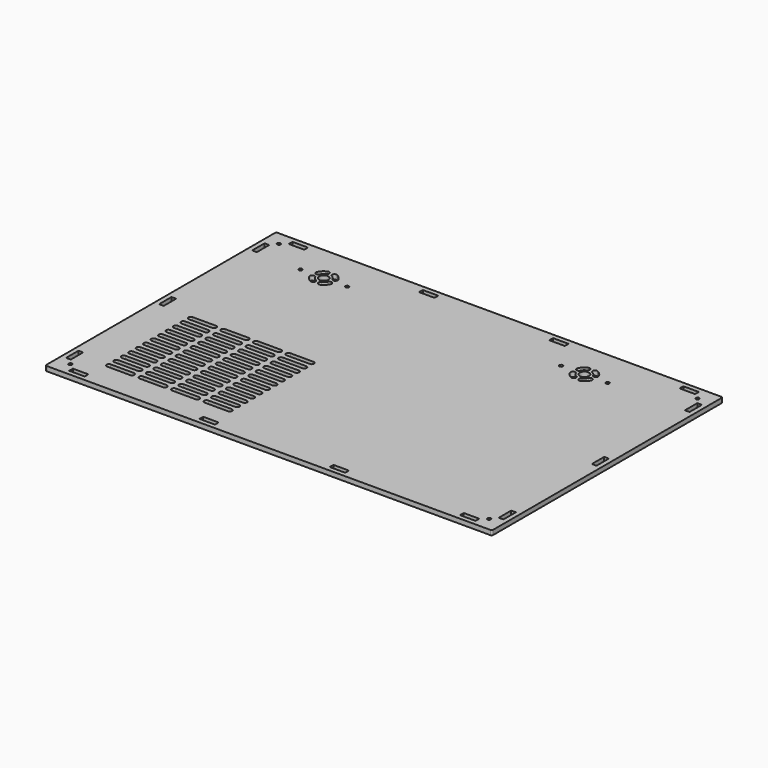
from build123d import *

# Parameters (mm, degrees)
F0_R     = 1.1
F0_W     = 10
F0_H     = 3
F0_W_2   = 3
F0_H_2   = 10
F0_R_2   = 3
F1_DEPTH = 3


with BuildPart() as f1:
    # F0 (on Top) → F1 (new body)
    with BuildSketch(Plane.XY):
        with BuildLine():
            ThreePointArc((5, 6), (5.292893, 5.292893), (6, 5))
            Line((6, 5), (292, 5))
            ThreePointArc((292, 5), (292.707107, 5.292893), (293, 6))
            Line((293, 6), (293, 190))
            ThreePointArc((293, 190), (292.707107, 190.707107), (292, 191))
            Line((292, 191), (6, 191))
            ThreePointArc((6, 191), (5.292893, 190.707107), (5, 190))
            Line((5, 190), (5, 6))
        make_face()
        with Locations((14, 14)):
            Circle(F0_R, mode=Mode.SUBTRACT)
        with Locations((23, 9.5)):
            Rectangle(F0_W, F0_H, mode=Mode.SUBTRACT)
        with Locations((9.5, 23)):
            Rectangle(F0_W_2, F0_H_2, mode=Mode.SUBTRACT)
        with BuildLine():
            Line((45, 23.5), (30, 23.5))
            ThreePointArc((30, 23.5), (28.5, 25), (30, 26.5))
            Line((30, 26.5), (45, 26.5))
            ThreePointArc((45, 26.5), (46.5, 25), (45, 23.5))
        make_face(mode=Mode.SUBTRACT)
        with BuildLine():
            Line((66, 23.5), (51, 23.5))
            ThreePointArc((51, 23.5), (49.5, 25), (51, 26.5))
            Line((51, 26.5), (66, 26.5))
            ThreePointArc((66, 26.5), (67.5, 25), (66, 23.5))
        make_face(mode=Mode.SUBTRACT)
        with BuildLine():
            Line((45, 29.5), (30, 29.5))
            ThreePointArc((30, 29.5), (28.5, 31), (30, 32.5))
            Line((30, 32.5), (45, 32.5))
            ThreePointArc((45, 32.5), (46.5, 31), (45, 29.5))
        make_face(mode=Mode.SUBTRACT)
        with BuildLine():
            Line((45, 35.5), (30, 35.5))
            ThreePointArc((30, 35.5), (28.5, 37), (30, 38.5))
            Line((30, 38.5), (45, 38.5))
            ThreePointArc((45, 38.5), (46.5, 37), (45, 35.5))
        make_face(mode=Mode.SUBTRACT)
        with BuildLine():
            Line((45, 41.5), (30, 41.5))
            ThreePointArc((30, 41.5), (28.5, 43), (30, 44.5))
            Line((30, 44.5), (45, 44.5))
            ThreePointArc((45, 44.5), (46.5, 43), (45, 41.5))
        make_face(mode=Mode.SUBTRACT)
        with BuildLine():
            Line((45, 47.5), (30, 47.5))
            ThreePointArc((30, 47.5), (28.5, 49), (30, 50.5))
            Line((30, 50.5), (45, 50.5))
            ThreePointArc((45, 50.5), (46.5, 49), (45, 47.5))
        make_face(mode=Mode.SUBTRACT)
        with BuildLine():
            Line((66, 29.5), (51, 29.5))
            ThreePointArc((51, 29.5), (49.5, 31), (51, 32.5))
            Line((51, 32.5), (66, 32.5))
            ThreePointArc((66, 32.5), (67.5, 31), (66, 29.5))
        make_face(mode=Mode.SUBTRACT)
        with BuildLine():
            Line((66, 35.5), (51, 35.5))
            ThreePointArc((51, 35.5), (49.5, 37), (51, 38.5))
            Line((51, 38.5), (66, 38.5))
            ThreePointArc((66, 38.5), (67.5, 37), (66, 35.5))
        make_face(mode=Mode.SUBTRACT)
        with BuildLine():
            Line((66, 41.5), (51, 41.5))
            ThreePointArc((51, 41.5), (49.5, 43), (51, 44.5))
            Line((51, 44.5), (66, 44.5))
            ThreePointArc((66, 44.5), (67.5, 43), (66, 41.5))
        make_face(mode=Mode.SUBTRACT)
        with BuildLine():
            Line((66, 47.5), (51, 47.5))
            ThreePointArc((51, 47.5), (49.5, 49), (51, 50.5))
            Line((51, 50.5), (66, 50.5))
            ThreePointArc((66, 50.5), (67.5, 49), (66, 47.5))
        make_face(mode=Mode.SUBTRACT)
        with Locations((107, 9.5)):
            Rectangle(F0_W, F0_H, mode=Mode.SUBTRACT)
        with BuildLine():
            Line((87, 23.5), (72, 23.5))
            ThreePointArc((72, 23.5), (70.5, 25), (72, 26.5))
            Line((72, 26.5), (87, 26.5))
            ThreePointArc((87, 26.5), (88.5, 25), (87, 23.5))
        make_face(mode=Mode.SUBTRACT)
        with BuildLine():
            Line((108, 23.5), (93, 23.5))
            ThreePointArc((93, 23.5), (91.5, 25), (93, 26.5))
            Line((93, 26.5), (108, 26.5))
            ThreePointArc((108, 26.5), (109.5, 25), (108, 23.5))
        make_face(mode=Mode.SUBTRACT)
        with BuildLine():
            Line((87, 29.5), (72, 29.5))
            ThreePointArc((72, 29.5), (70.5, 31), (72, 32.5))
            Line((72, 32.5), (87, 32.5))
            ThreePointArc((87, 32.5), (88.5, 31), (87, 29.5))
        make_face(mode=Mode.SUBTRACT)
        with BuildLine():
            Line((87, 35.5), (72, 35.5))
            ThreePointArc((72, 35.5), (70.5, 37), (72, 38.5))
            Line((72, 38.5), (87, 38.5))
            ThreePointArc((87, 38.5), (88.5, 37), (87, 35.5))
        make_face(mode=Mode.SUBTRACT)
        with BuildLine():
            Line((108, 29.5), (93, 29.5))
            ThreePointArc((93, 29.5), (91.5, 31), (93, 32.5))
            Line((93, 32.5), (108, 32.5))
            ThreePointArc((108, 32.5), (109.5, 31), (108, 29.5))
        make_face(mode=Mode.SUBTRACT)
        with BuildLine():
            Line((108, 35.5), (93, 35.5))
            ThreePointArc((93, 35.5), (91.5, 37), (93, 38.5))
            Line((93, 38.5), (108, 38.5))
            ThreePointArc((108, 38.5), (109.5, 37), (108, 35.5))
        make_face(mode=Mode.SUBTRACT)
        with BuildLine():
            Line((87, 41.5), (72, 41.5))
            ThreePointArc((72, 41.5), (70.5, 43), (72, 44.5))
            Line((72, 44.5), (87, 44.5))
            ThreePointArc((87, 44.5), (88.5, 43), (87, 41.5))
        make_face(mode=Mode.SUBTRACT)
        with BuildLine():
            Line((87, 47.5), (72, 47.5))
            ThreePointArc((72, 47.5), (70.5, 49), (72, 50.5))
            Line((72, 50.5), (87, 50.5))
            ThreePointArc((87, 50.5), (88.5, 49), (87, 47.5))
        make_face(mode=Mode.SUBTRACT)
        with BuildLine():
            Line((108, 41.5), (93, 41.5))
            ThreePointArc((93, 41.5), (91.5, 43), (93, 44.5))
            Line((93, 44.5), (108, 44.5))
            ThreePointArc((108, 44.5), (109.5, 43), (108, 41.5))
        make_face(mode=Mode.SUBTRACT)
        with BuildLine():
            Line((108, 47.5), (93, 47.5))
            ThreePointArc((93, 47.5), (91.5, 49), (93, 50.5))
            Line((93, 50.5), (108, 50.5))
            ThreePointArc((108, 50.5), (109.5, 49), (108, 47.5))
        make_face(mode=Mode.SUBTRACT)
        with BuildLine():
            Line((45, 53.5), (30, 53.5))
            ThreePointArc((30, 53.5), (28.5, 55), (30, 56.5))
            Line((30, 56.5), (45, 56.5))
            ThreePointArc((45, 56.5), (46.5, 55), (45, 53.5))
        make_face(mode=Mode.SUBTRACT)
        with BuildLine():
            Line((45, 59.5), (30, 59.5))
            ThreePointArc((30, 59.5), (28.5, 61), (30, 62.5))
            Line((30, 62.5), (45, 62.5))
            ThreePointArc((45, 62.5), (46.5, 61), (45, 59.5))
        make_face(mode=Mode.SUBTRACT)
        with BuildLine():
            Line((45, 65.5), (30, 65.5))
            ThreePointArc((30, 65.5), (28.5, 67), (30, 68.5))
            Line((30, 68.5), (45, 68.5))
            ThreePointArc((45, 68.5), (46.5, 67), (45, 65.5))
        make_face(mode=Mode.SUBTRACT)
        with BuildLine():
            Line((45, 71.5), (30, 71.5))
            ThreePointArc((30, 71.5), (28.5, 73), (30, 74.5))
            Line((30, 74.5), (45, 74.5))
            ThreePointArc((45, 74.5), (46.5, 73), (45, 71.5))
        make_face(mode=Mode.SUBTRACT)
        with BuildLine():
            Line((66, 53.5), (51, 53.5))
            ThreePointArc((51, 53.5), (49.5, 55), (51, 56.5))
            Line((51, 56.5), (66, 56.5))
            ThreePointArc((66, 56.5), (67.5, 55), (66, 53.5))
        make_face(mode=Mode.SUBTRACT)
        with BuildLine():
            Line((66, 59.5), (51, 59.5))
            ThreePointArc((51, 59.5), (49.5, 61), (51, 62.5))
            Line((51, 62.5), (66, 62.5))
            ThreePointArc((66, 62.5), (67.5, 61), (66, 59.5))
        make_face(mode=Mode.SUBTRACT)
        with BuildLine():
            Line((66, 65.5), (51, 65.5))
            ThreePointArc((51, 65.5), (49.5, 67), (51, 68.5))
            Line((51, 68.5), (66, 68.5))
            ThreePointArc((66, 68.5), (67.5, 67), (66, 65.5))
        make_face(mode=Mode.SUBTRACT)
        with BuildLine():
            Line((66, 71.5), (51, 71.5))
            ThreePointArc((51, 71.5), (49.5, 73), (51, 74.5))
            Line((51, 74.5), (66, 74.5))
            ThreePointArc((66, 74.5), (67.5, 73), (66, 71.5))
        make_face(mode=Mode.SUBTRACT)
        with BuildLine():
            Line((45, 77.5), (30, 77.5))
            ThreePointArc((30, 77.5), (28.5, 79), (30, 80.5))
            Line((30, 80.5), (45, 80.5))
            ThreePointArc((45, 80.5), (46.5, 79), (45, 77.5))
        make_face(mode=Mode.SUBTRACT)
        with BuildLine():
            Line((45, 83.5), (30, 83.5))
            ThreePointArc((30, 83.5), (28.5, 85), (30, 86.5))
            Line((30, 86.5), (45, 86.5))
            ThreePointArc((45, 86.5), (46.5, 85), (45, 83.5))
        make_face(mode=Mode.SUBTRACT)
        with BuildLine():
            Line((45, 89.5), (30, 89.5))
            ThreePointArc((30, 89.5), (28.5, 91), (30, 92.5))
            Line((30, 92.5), (45, 92.5))
            ThreePointArc((45, 92.5), (46.5, 91), (45, 89.5))
        make_face(mode=Mode.SUBTRACT)
        with BuildLine():
            Line((66, 77.5), (51, 77.5))
            ThreePointArc((51, 77.5), (49.5, 79), (51, 80.5))
            Line((51, 80.5), (66, 80.5))
            ThreePointArc((66, 80.5), (67.5, 79), (66, 77.5))
        make_face(mode=Mode.SUBTRACT)
        with BuildLine():
            Line((66, 83.5), (51, 83.5))
            ThreePointArc((51, 83.5), (49.5, 85), (51, 86.5))
            Line((51, 86.5), (66, 86.5))
            ThreePointArc((66, 86.5), (67.5, 85), (66, 83.5))
        make_face(mode=Mode.SUBTRACT)
        with BuildLine():
            Line((66, 89.5), (51, 89.5))
            ThreePointArc((51, 89.5), (49.5, 91), (51, 92.5))
            Line((51, 92.5), (66, 92.5))
            ThreePointArc((66, 92.5), (67.5, 91), (66, 89.5))
        make_face(mode=Mode.SUBTRACT)
        with BuildLine():
            Line((87, 53.5), (72, 53.5))
            ThreePointArc((72, 53.5), (70.5, 55), (72, 56.5))
            Line((72, 56.5), (87, 56.5))
            ThreePointArc((87, 56.5), (88.5, 55), (87, 53.5))
        make_face(mode=Mode.SUBTRACT)
        with BuildLine():
            Line((87, 59.5), (72, 59.5))
            ThreePointArc((72, 59.5), (70.5, 61), (72, 62.5))
            Line((72, 62.5), (87, 62.5))
            ThreePointArc((87, 62.5), (88.5, 61), (87, 59.5))
        make_face(mode=Mode.SUBTRACT)
        with BuildLine():
            Line((108, 53.5), (93, 53.5))
            ThreePointArc((93, 53.5), (91.5, 55), (93, 56.5))
            Line((93, 56.5), (108, 56.5))
            ThreePointArc((108, 56.5), (109.5, 55), (108, 53.5))
        make_face(mode=Mode.SUBTRACT)
        with BuildLine():
            Line((108, 59.5), (93, 59.5))
            ThreePointArc((93, 59.5), (91.5, 61), (93, 62.5))
            Line((93, 62.5), (108, 62.5))
            ThreePointArc((108, 62.5), (109.5, 61), (108, 59.5))
        make_face(mode=Mode.SUBTRACT)
        with BuildLine():
            Line((87, 65.5), (72, 65.5))
            ThreePointArc((72, 65.5), (70.5, 67), (72, 68.5))
            Line((72, 68.5), (87, 68.5))
            ThreePointArc((87, 68.5), (88.5, 67), (87, 65.5))
        make_face(mode=Mode.SUBTRACT)
        with BuildLine():
            Line((87, 71.5), (72, 71.5))
            ThreePointArc((72, 71.5), (70.5, 73), (72, 74.5))
            Line((72, 74.5), (87, 74.5))
            ThreePointArc((87, 74.5), (88.5, 73), (87, 71.5))
        make_face(mode=Mode.SUBTRACT)
        with BuildLine():
            Line((108, 65.5), (93, 65.5))
            ThreePointArc((93, 65.5), (91.5, 67), (93, 68.5))
            Line((93, 68.5), (108, 68.5))
            ThreePointArc((108, 68.5), (109.5, 67), (108, 65.5))
        make_face(mode=Mode.SUBTRACT)
        with BuildLine():
            Line((108, 71.5), (93, 71.5))
            ThreePointArc((93, 71.5), (91.5, 73), (93, 74.5))
            Line((93, 74.5), (108, 74.5))
            ThreePointArc((108, 74.5), (109.5, 73), (108, 71.5))
        make_face(mode=Mode.SUBTRACT)
        with BuildLine():
            Line((87, 77.5), (72, 77.5))
            ThreePointArc((72, 77.5), (70.5, 79), (72, 80.5))
            Line((72, 80.5), (87, 80.5))
            ThreePointArc((87, 80.5), (88.5, 79), (87, 77.5))
        make_face(mode=Mode.SUBTRACT)
        with BuildLine():
            Line((87, 83.5), (72, 83.5))
            ThreePointArc((72, 83.5), (70.5, 85), (72, 86.5))
            Line((72, 86.5), (87, 86.5))
            ThreePointArc((87, 86.5), (88.5, 85), (87, 83.5))
        make_face(mode=Mode.SUBTRACT)
        with BuildLine():
            Line((108, 77.5), (93, 77.5))
            ThreePointArc((93, 77.5), (91.5, 79), (93, 80.5))
            Line((93, 80.5), (108, 80.5))
            ThreePointArc((108, 80.5), (109.5, 79), (108, 77.5))
        make_face(mode=Mode.SUBTRACT)
        with BuildLine():
            Line((108, 83.5), (93, 83.5))
            ThreePointArc((93, 83.5), (91.5, 85), (93, 86.5))
            Line((93, 86.5), (108, 86.5))
            ThreePointArc((108, 86.5), (109.5, 85), (108, 83.5))
        make_face(mode=Mode.SUBTRACT)
        with BuildLine():
            Line((87, 89.5), (72, 89.5))
            ThreePointArc((72, 89.5), (70.5, 91), (72, 92.5))
            Line((72, 92.5), (87, 92.5))
            ThreePointArc((87, 92.5), (88.5, 91), (87, 89.5))
        make_face(mode=Mode.SUBTRACT)
        with BuildLine():
            Line((108, 89.5), (93, 89.5))
            ThreePointArc((93, 89.5), (91.5, 91), (93, 92.5))
            Line((93, 92.5), (108, 92.5))
            ThreePointArc((108, 92.5), (109.5, 91), (108, 89.5))
        make_face(mode=Mode.SUBTRACT)
        with Locations((191, 9.5)):
            Rectangle(F0_W, F0_H, mode=Mode.SUBTRACT)
        with Locations((275, 9.5)):
            Rectangle(F0_W, F0_H, mode=Mode.SUBTRACT)
        with Locations((284, 14)):
            Circle(F0_R, mode=Mode.SUBTRACT)
        with Locations((288.5, 23)):
            Rectangle(F0_W_2, F0_H_2, mode=Mode.SUBTRACT)
        Polygon((8, 93), (8, 98), (8, 103), (11, 103), (11, 98), (11, 93), align=None, mode=Mode.SUBTRACT)
        with Locations((40, 167)):
            Circle(F0_R, mode=Mode.SUBTRACT)
        with BuildLine():
            ThreePointArc((48.148409, 163.949475), (48.908622, 165.929898), (50.889045, 165.169685))
            ThreePointArc((50.889045, 165.169685), (51.818019, 163.818019), (53.169685, 162.889045))
            ThreePointArc((53.169685, 162.889045), (53.929898, 160.908622), (51.949475, 160.148409))
            ThreePointArc((51.949475, 160.148409), (49.696699, 161.696699), (48.148409, 163.949475))
        make_face(mode=Mode.SUBTRACT)
        with BuildLine():
            ThreePointArc((61.851591, 163.949475), (60.303301, 161.696699), (58.050525, 160.148409))
            ThreePointArc((58.050525, 160.148409), (56.070102, 160.908622), (56.830315, 162.889045))
            ThreePointArc((56.830315, 162.889045), (58.181981, 163.818019), (59.110955, 165.169685))
            ThreePointArc((59.110955, 165.169685), (61.091378, 165.929898), (61.851591, 163.949475))
        make_face(mode=Mode.SUBTRACT)
        with Locations((55, 167)):
            Circle(F0_R_2, mode=Mode.SUBTRACT)
        with Locations((70, 167)):
            Circle(F0_R, mode=Mode.SUBTRACT)
        with Locations((9.5, 173)):
            Rectangle(F0_W_2, F0_H_2, mode=Mode.SUBTRACT)
        with Locations((14, 182)):
            Circle(F0_R, mode=Mode.SUBTRACT)
        with Locations((23, 186.5)):
            Rectangle(F0_W, F0_H, mode=Mode.SUBTRACT)
        with BuildLine():
            ThreePointArc((53.169685, 171.110955), (51.818019, 170.181981), (50.889045, 168.830315))
            ThreePointArc((50.889045, 168.830315), (48.908622, 168.070102), (48.148409, 170.050525))
            ThreePointArc((48.148409, 170.050525), (49.696699, 172.303301), (51.949475, 173.851591))
            ThreePointArc((51.949475, 173.851591), (53.929898, 173.091378), (53.169685, 171.110955))
        make_face(mode=Mode.SUBTRACT)
        with BuildLine():
            ThreePointArc((58.050525, 173.851591), (60.303301, 172.303301), (61.851591, 170.050525))
            ThreePointArc((61.851591, 170.050525), (61.091378, 168.070102), (59.110955, 168.830315))
            ThreePointArc((59.110955, 168.830315), (58.181981, 170.181981), (56.830315, 171.110955))
            ThreePointArc((56.830315, 171.110955), (56.070102, 173.091378), (58.050525, 173.851591))
        make_face(mode=Mode.SUBTRACT)
        with Locations((107, 186.5)):
            Rectangle(F0_W, F0_H, mode=Mode.SUBTRACT)
        Polygon((290, 103), (290, 98), (290, 93), (287, 93), (287, 98), (287, 103), align=None, mode=Mode.SUBTRACT)
        with Locations((208, 167)):
            Circle(F0_R, mode=Mode.SUBTRACT)
        with BuildLine():
            ThreePointArc((216.148409, 163.949475), (216.908622, 165.929898), (218.889045, 165.169685))
            ThreePointArc((218.889045, 165.169685), (219.818019, 163.818019), (221.169685, 162.889045))
            ThreePointArc((221.169685, 162.889045), (221.929898, 160.908622), (219.949475, 160.148409))
            ThreePointArc((219.949475, 160.148409), (217.696699, 161.696699), (216.148409, 163.949475))
        make_face(mode=Mode.SUBTRACT)
        with BuildLine():
            ThreePointArc((221.169685, 171.110955), (219.818019, 170.181981), (218.889045, 168.830315))
            ThreePointArc((218.889045, 168.830315), (216.908622, 168.070102), (216.148409, 170.050525))
            ThreePointArc((216.148409, 170.050525), (217.696699, 172.303301), (219.949475, 173.851591))
            ThreePointArc((219.949475, 173.851591), (221.929898, 173.091378), (221.169685, 171.110955))
        make_face(mode=Mode.SUBTRACT)
        with Locations((191, 186.5)):
            Rectangle(F0_W, F0_H, mode=Mode.SUBTRACT)
        with BuildLine():
            ThreePointArc((229.851591, 163.949475), (228.303301, 161.696699), (226.050525, 160.148409))
            ThreePointArc((226.050525, 160.148409), (224.070102, 160.908622), (224.830315, 162.889045))
            ThreePointArc((224.830315, 162.889045), (226.181981, 163.818019), (227.110955, 165.169685))
            ThreePointArc((227.110955, 165.169685), (229.091378, 165.929898), (229.851591, 163.949475))
        make_face(mode=Mode.SUBTRACT)
        with Locations((223, 167)):
            Circle(F0_R_2, mode=Mode.SUBTRACT)
        with Locations((238, 167)):
            Circle(F0_R, mode=Mode.SUBTRACT)
        with BuildLine():
            ThreePointArc((226.050525, 173.851591), (228.303301, 172.303301), (229.851591, 170.050525))
            ThreePointArc((229.851591, 170.050525), (229.091378, 168.070102), (227.110955, 168.830315))
            ThreePointArc((227.110955, 168.830315), (226.181981, 170.181981), (224.830315, 171.110955))
            ThreePointArc((224.830315, 171.110955), (224.070102, 173.091378), (226.050525, 173.851591))
        make_face(mode=Mode.SUBTRACT)
        with Locations((288.5, 173)):
            Rectangle(F0_W_2, F0_H_2, mode=Mode.SUBTRACT)
        with Locations((284, 182)):
            Circle(F0_R, mode=Mode.SUBTRACT)
        with Locations((275, 186.5)):
            Rectangle(F0_W, F0_H, mode=Mode.SUBTRACT)
    extrude(amount=F1_DEPTH)


solid = f1.part
